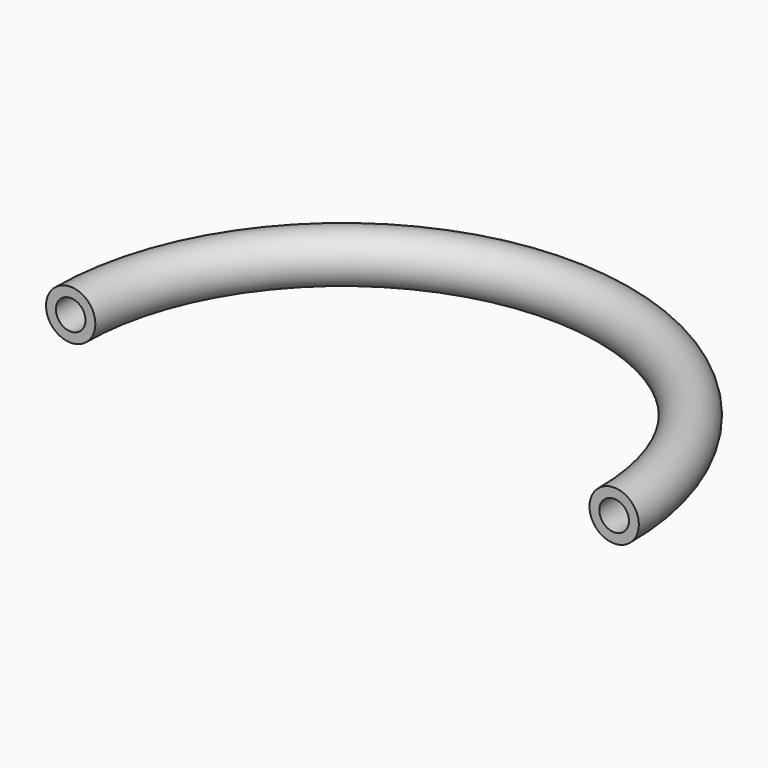
from build123d import *

# Parameters (mm, degrees)
F0_R     = 3.175
F0_R_2   = 1.905
F2_ANGLE = 180


with BuildPart() as f2:
    # F0 (on Front) → F2 (revolve)
    with BuildSketch(Plane.XZ):
        Circle(F0_R)
        Circle(F0_R_2, mode=Mode.SUBTRACT)
    revolve(axis=Axis((35, 0, -1.151308), (0, 0, -1)), revolution_arc=F2_ANGLE)


solid = f2.part
